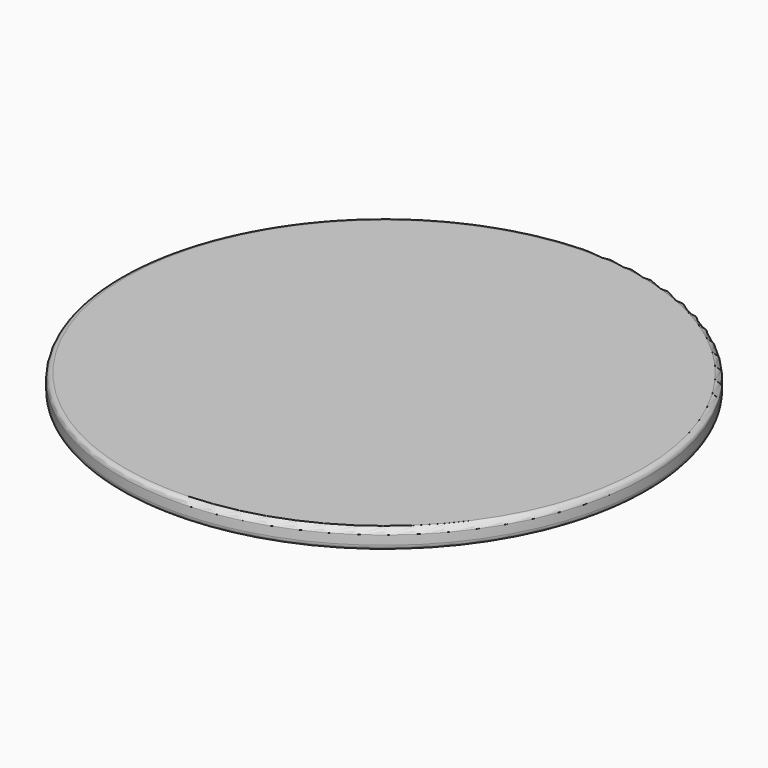
from build123d import *

# Parameters (mm, degrees)
F0_R     = 150
F1_DEPTH = 20
F2_SIZE2 = 20
F2_SIZE  = 10
F3_R     = 3
F4_R     = 3


with BuildPart() as f1:
    # F0 (on Top) → F1 (new body)
    with BuildSketch(Plane.XY):
        Circle(F0_R)
    extrude(amount=F1_DEPTH)

    # F2
    f2_edges = [f1.edges().sort_by_distance(p)[0] for p in [
        (-150, 0, 0),
    ]]
    chamfer(f2_edges, length=F2_SIZE, length2=F2_SIZE2)

    # F3
    f3_edges = [f1.edges().sort_by_distance(p)[0] for p in [
        (-150, 0, 20),
    ]]
    fillet(f3_edges, radius=F3_R)

    # F4
    f4_edges = [f1.edges().sort_by_distance(p)[0] for p in [
        (-150, 0, 10),
    ]]
    fillet(f4_edges, radius=F4_R)


solid = f1.part
